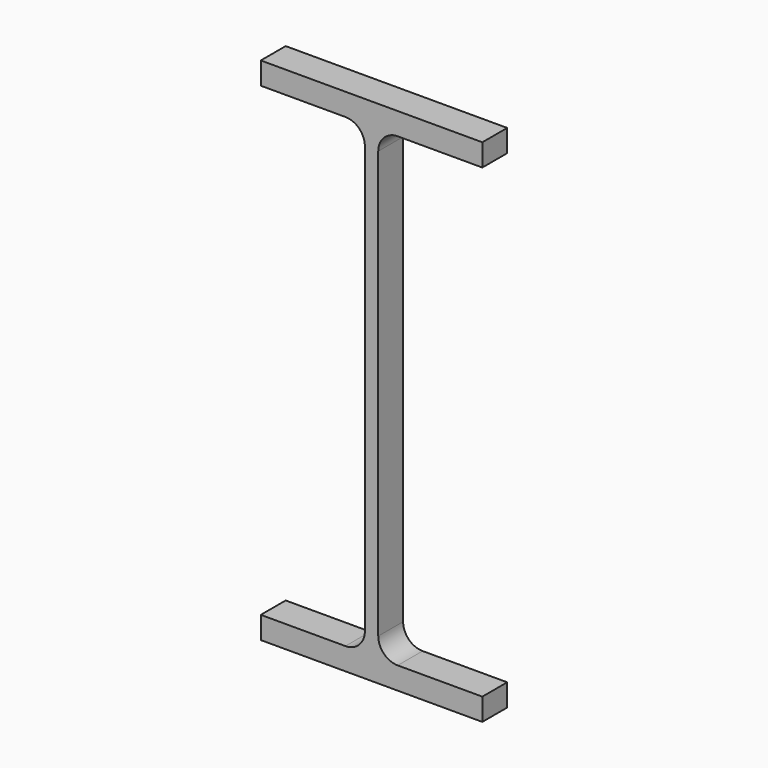
from build123d import *

# Parameters (mm, degrees)
F1_DEPTH = 25.4


with BuildPart() as f1:
    # F0 (on Front) → F1 (new body)
    with BuildSketch(Plane.XZ):
        with BuildLine():
            Line((90.424, 208.28), (-90.424, 208.28))
            Line((-90.424, 208.28), (-90.424, 190.119))
            Line((-90.424, 190.119), (-21.336, 190.119))
            ThreePointArc((-21.336, 190.119), (-10.11068, 185.46932), (-5.461, 174.244))
            Line((-5.461, 174.244), (-5.461, -174.244))
            ThreePointArc((-5.461, -174.244), (-10.11068, -185.46932), (-21.336, -190.119))
            Line((-21.336, -190.119), (-90.424, -190.119))
            Line((-90.424, -190.119), (-90.424, -208.28))
            Line((-90.424, -208.28), (90.424, -208.28))
            Line((90.424, -208.28), (90.424, -190.119))
            Line((90.424, -190.119), (21.336, -190.119))
            ThreePointArc((21.336, -190.119), (10.11068, -185.46932), (5.461, -174.244))
            Line((5.461, -174.244), (5.461, 174.244))
            ThreePointArc((5.461, 174.244), (10.11068, 185.46932), (21.336, 190.119))
            Line((21.336, 190.119), (90.424, 190.119))
            Line((90.424, 190.119), (90.424, 208.28))
        make_face()
    extrude(amount=F1_DEPTH)


solid = f1.part
